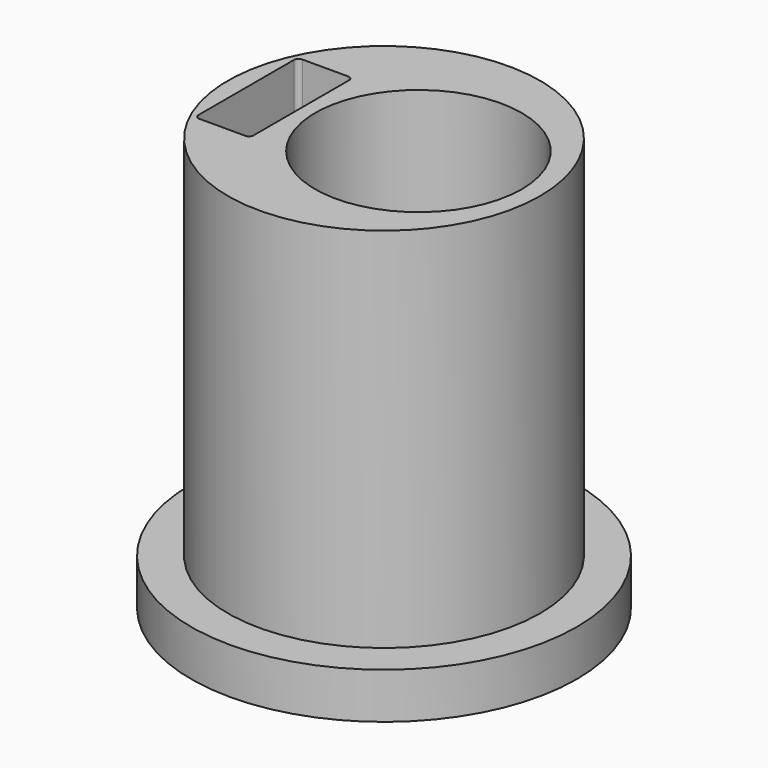
from build123d import *

# Parameters (mm, degrees)
F0_R     = 17
F0_R_2   = 11.25
F1_DEPTH = 45
F0_R_3   = 21
F2_DEPTH = 5


with BuildPart() as f1:
    # F0 (on Top) → F1 (new body)
    with BuildSketch(Plane.XY):
        Circle(F0_R)
        with BuildLine():
            ThreePointArc((-9, -6.5), (-9.146447, -6.853553), (-9.5, -7))
            Line((-9.5, -7), (-14.5, -7))
            ThreePointArc((-14.5, -7), (-14.853553, -6.853553), (-15, -6.5))
            Line((-15, -6.5), (-15, 6.5))
            ThreePointArc((-15, 6.5), (-14.853553, 6.853553), (-14.5, 7))
            Line((-14.5, 7), (-9.5, 7))
            ThreePointArc((-9.5, 7), (-9.146447, 6.853553), (-9, 6.5))
            Line((-9, 6.5), (-9, -6.5))
        make_face(mode=Mode.SUBTRACT)
        with Locations((3.75, 0)):
            Circle(F0_R_2, mode=Mode.SUBTRACT)
    extrude(amount=F1_DEPTH)

    # F0 (on Top) → F2 (join)
    with BuildSketch(Plane.XY):
        Circle(F0_R_3)
        Circle(F0_R, mode=Mode.SUBTRACT)
    extrude(amount=F2_DEPTH)


solid = f1.part
